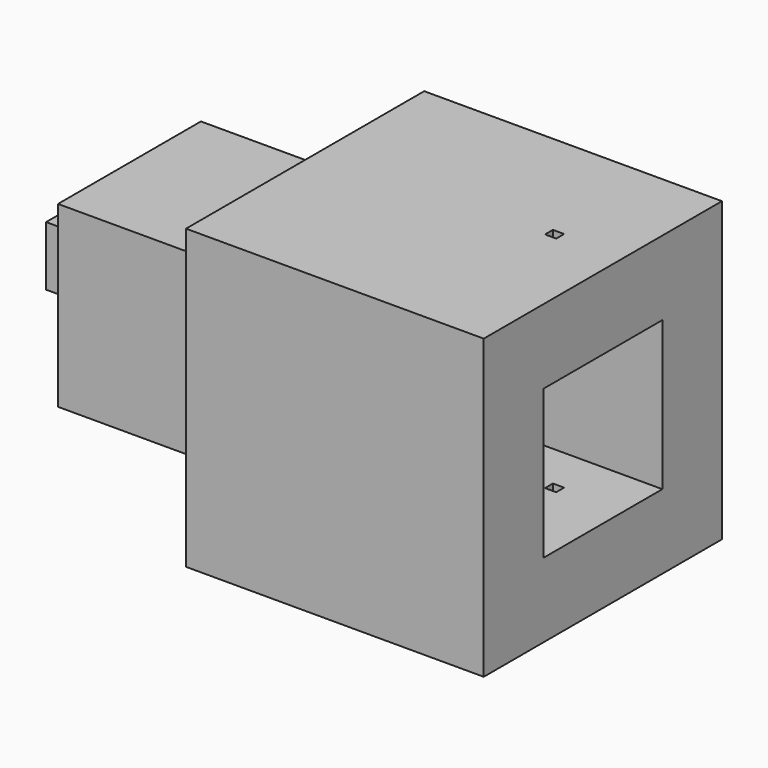
from build123d import *

# Parameters (mm, degrees)
F0_W     = 2540
F0_H     = 2540
F0_W_2   = 95.686204
F0_H_2   = 84.483918
F1_DEPTH = 2540
F2_W     = 1524
F2_H     = 1524
F3_DEPTH = 1498.6
F4_W     = 508
F4_H     = 508
F5_DEPTH = 508
F7_W     = 1270
F7_H     = 1270
F8_DEPTH = 1270


with BuildPart() as f1:
    # F0 (on Top) → F1 (new body)
    with BuildSketch(Plane.XY):
        with Locations((-697.775306, -197.653218)):
            Rectangle(F0_W, F0_H)
        with Locations((-0.506956, 3.34437)):
            Rectangle(F0_W_2, F0_H_2, mode=Mode.SUBTRACT)
    extrude(amount=F1_DEPTH)

    # F2 (on face) → F3 (join)
    with BuildSketch(Plane(origin=(-1967.775306, 0, 0), x_dir=(0, -1, 0), z_dir=(-1, 0, 0))):
        with Locations((197.653218, 1270)):
            Rectangle(F2_W, F2_H)
    extrude(amount=F3_DEPTH)

    # F4 (on face) → F5 (join)
    with BuildSketch(Plane(origin=(-3466.375306, 0, 0), x_dir=(0, -1, 0), z_dir=(-1, 0, 0))):
        with Locations((197.653218, 1270)):
            Rectangle(F4_W, F4_H)
    extrude(amount=F5_DEPTH)

    # F7 (on face) → F8 (cut)
    with BuildSketch(Plane.YZ.offset(572.224694)):
        with Locations((-197.653218, 1270)):
            Rectangle(F7_W, F7_H)
    extrude(amount=-F8_DEPTH, mode=Mode.SUBTRACT)


solid = f1.part
